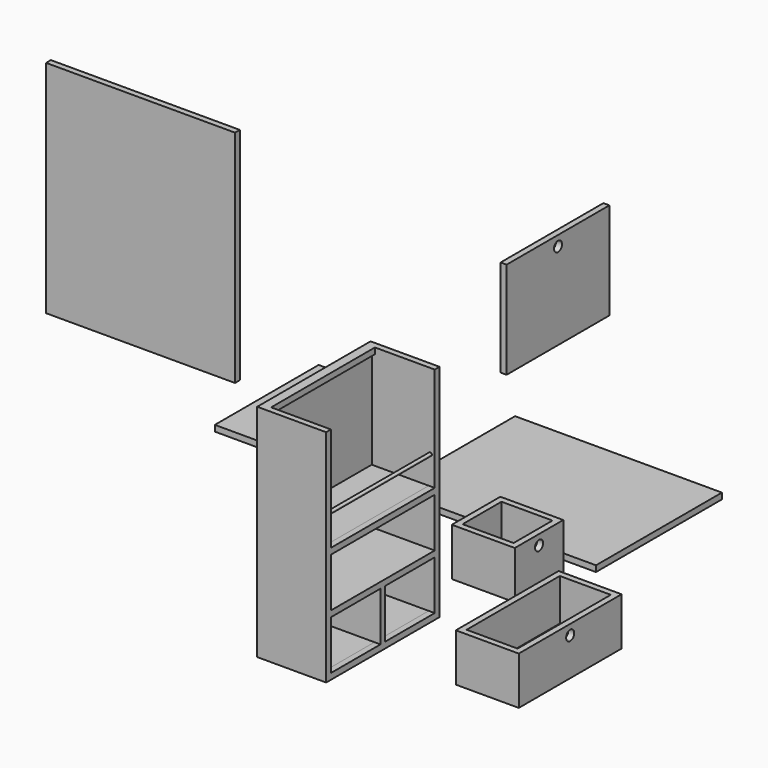
from build123d import *

# Parameters (mm, degrees)
F0_W      = 450
F0_H      = 700
F1_DEPTH  = 19
F2_W      = 19
F2_H      = 700
F3_DEPTH  = 200
F4_W      = 19
F4_H      = 700
F5_DEPTH  = 200
F6_W      = 412
F6_H      = 19
F7_DEPTH  = 10
F8_W      = 412
F8_H      = 19
F9_DEPTH  = 200
F10_W     = 19
F10_H     = 412
F11_DEPTH = 0.1
F12_W     = 412
F12_H     = 19
F13_DEPTH = 200
F14_W     = 19
F14_H     = 412
F15_DEPTH = 0.1
F16_W     = 657
F16_H     = 500
F17_DEPTH = 19
F18_W     = 600
F18_H     = 700
F19_DEPTH = 19
F20_R     = 5
F21_DEPTH = 15
F22_R     = 5
F23_DEPTH = 15
F24_R     = 5
F25_DEPTH = 15
F26_R     = 5
F27_DEPTH = 15
F28_R     = 5
F29_DEPTH = 430
F30_W     = 412
F30_H     = 19
F31_DEPTH = 200
F32_W     = 19
F32_H     = 174.95
F33_DEPTH = 200
F34_W     = 200
F34_H     = 192.5
F35_DEPTH = 19
F36_W     = 200
F36_H     = 192.5
F36_W_2   = 162
F36_H_2   = 154.5
F37_DEPTH = 132.95
F38_R     = 16
F39_DEPTH = 25
F40_W     = 200
F40_H     = 408
F41_DEPTH = 19
F42_W     = 200
F42_H     = 408
F42_W_2   = 162
F42_H_2   = 370
F43_DEPTH = 132.95
F44_R     = 16
F45_DEPTH = 25
F46_W     = 408
F46_H     = 308
F47_DEPTH = 19
F48_R     = 16
F49_DEPTH = 25
F50_W     = 200
F50_H     = 412
F51_DEPTH = 19


with BuildPart() as f1:
    # F0 (on Right) → F1 (new body)
    with BuildSketch(Plane.YZ):
        with Locations((-478.8726508617, 296.4027918875)):
            Rectangle(F0_W, F0_H)
    extrude(amount=F1_DEPTH)

    # F2 (on face) → F3 (join)
    with BuildSketch(Plane.YZ.offset(19)):
        with Locations((-694.3726508617, 296.4027918875)):
            Rectangle(F2_W, F2_H)
    extrude(amount=F3_DEPTH)

    # F4 (on face) → F5 (join)
    with BuildSketch(Plane.YZ.offset(19)):
        with Locations((-263.3726508617, 296.4027918875)):
            Rectangle(F4_W, F4_H)
    extrude(amount=F5_DEPTH)

    # F6 (on face) → F7 (join)
    with BuildSketch(Plane.YZ.offset(19)):
        with Locations((-478.8726508617, 636.9027918875)):
            Rectangle(F6_W, F6_H)
    extrude(amount=F7_DEPTH)

    # F8 (on face) → F9 (join)
    with BuildSketch(Plane.YZ.offset(19)):
        with Locations((-478.8726508617, -44.0972081125)):
            Rectangle(F8_W, F8_H)
    extrude(amount=F9_DEPTH)

    # F10 (on face) → F11 (join)
    with BuildSketch(Plane.XY.offset(-34.5972081125)):
        with Locations((209.5, -478.8726508617)):
            Rectangle(F10_W, F10_H)
    extrude(amount=F11_DEPTH)

    # F12 (on face) → F13 (join)
    with BuildSketch(Plane.YZ.offset(19)):
        with Locations((-478.8726508617, 305.9027918875)):
            Rectangle(F12_W, F12_H)
    extrude(amount=F13_DEPTH)

    # F14 (on face) → F15 (join)
    with BuildSketch(Plane.XY.offset(315.4027918875)):
        with Locations((209.5, -478.8726508617)):
            Rectangle(F14_W, F14_H)
    extrude(amount=F15_DEPTH)

    # F20 (on face) → F21 (cut)
    with BuildSketch(Plane.XY.offset(646.4027918875)):
        with Locations((169, -303.8726508617)):
            Circle(F20_R)
    extrude(amount=-F21_DEPTH, mode=Mode.SUBTRACT)

    # F24 (on face) → F25 (cut)
    with BuildSketch(Plane.XY.offset(646.4027918875)):
        with Locations((169, -653.8726508617)):
            Circle(F24_R)
    extrude(amount=-F25_DEPTH, mode=Mode.SUBTRACT)

    # F28 (on face) → F29 (join)
    with BuildSketch(Plane.XZ.offset(272.8726508617)):
        with Locations((205, 405.5027918875)):
            Circle(F28_R)
    extrude(amount=F29_DEPTH)

    # F30 (on face) → F31 (join)
    with BuildSketch(Plane.YZ.offset(19)):
        with Locations((-478.8726508617, 130.9527918875)):
            Rectangle(F30_W, F30_H)
        with Locations((-478.8726508617, 130.9527918875)):
            Rectangle(F30_W, F30_H)
    extrude(amount=F31_DEPTH)

    # F32 (on face) → F33 (join)
    with BuildSketch(Plane.YZ.offset(19)):
        with Locations((-478.8726508617, 52.9777918875)):
            Rectangle(F32_W, F32_H)
    extrude(amount=F33_DEPTH)


with BuildPart() as f17:
    # F16 (on Top) → F17 (new body)
    with BuildSketch(Plane.XY):
        with Locations((106.6157940626, 347.1586033702)):
            Rectangle(F16_W, F16_H)
    extrude(amount=F17_DEPTH)

    # F22 (on face) → F23 (cut)
    with BuildSketch(Plane(origin=(0, 0, 0), x_dir=(1, 0, 0), z_dir=(0, 0, -1))):
        with Locations((425.1157940626, -107.1586033702)):
            Circle(F22_R)
    extrude(amount=-F23_DEPTH, mode=Mode.SUBTRACT)

    # F26 (on face) → F27 (cut)
    with BuildSketch(Plane(origin=(0, 0, 0), x_dir=(1, 0, 0), z_dir=(0, 0, -1))):
        with Locations((-211.8842059374, -107.1586033702)):
            Circle(F26_R)
    extrude(amount=-F27_DEPTH, mode=Mode.SUBTRACT)


with BuildPart() as f19:
    # F18 (on Front) → F19 (new body)
    with BuildSketch(Plane.XZ):
        with Locations((-918.4927225113, 583.2810461521)):
            Rectangle(F18_W, F18_H)
    extrude(amount=F19_DEPTH)


with BuildPart() as f35:
    # F34 (on Top) → F35 (new body)
    with BuildSketch(Plane.XY):
        with Locations((279.4003725052, -59.2842972279)):
            Rectangle(F34_W, F34_H)
    extrude(amount=F35_DEPTH)

    # F36 (on face) → F37 (join)
    with BuildSketch(Plane.XY.offset(19)):
        with Locations((279.4003725052, -59.2842972279)):
            Rectangle(F36_W, F36_H)
        with Locations((279.4003725052, -59.2842972279)):
            Rectangle(F36_W_2, F36_H_2, mode=Mode.SUBTRACT)
    extrude(amount=F37_DEPTH)

    # F38 (on face) → F39 (cut)
    with BuildSketch(Plane.YZ.offset(379.4003725052)):
        with Locations((-59.2842972279, 119.95)):
            Circle(F38_R)
    extrude(amount=-F39_DEPTH, mode=Mode.SUBTRACT)


with BuildPart() as f41:
    # F40 (on Top) → F41 (new body)
    with BuildSketch(Plane.XY):
        with Locations((641.397023201, -388.1634435654)):
            Rectangle(F40_W, F40_H)
    extrude(amount=F41_DEPTH)

    # F42 (on face) → F43 (join)
    with BuildSketch(Plane.XY.offset(19)):
        with Locations((641.397023201, -388.1634435654)):
            Rectangle(F42_W, F42_H)
        with Locations((641.397023201, -388.1634435654)):
            Rectangle(F42_W_2, F42_H_2, mode=Mode.SUBTRACT)
    extrude(amount=F43_DEPTH)

    # F44 (on face) → F45 (cut)
    with BuildSketch(Plane.YZ.offset(741.397023201)):
        with Locations((-388.1634435654, 119.95)):
            Circle(F44_R)
    extrude(amount=-F45_DEPTH, mode=Mode.SUBTRACT)


with BuildPart() as f47:
    # F46 (on Right) → F47 (new body)
    with BuildSketch(Plane.YZ):
        with Locations((466.4241037369, 503.0626513958)):
            Rectangle(F46_W, F46_H)
    extrude(amount=F47_DEPTH)

    # F48 (on face) → F49 (cut)
    with BuildSketch(Plane.YZ.offset(19)):
        with Locations((466.4241037369, 625.0626513958)):
            Circle(F48_R)
    extrude(amount=-F49_DEPTH, mode=Mode.SUBTRACT)


with BuildPart() as f51:
    # F50 (on Top) → F51 (new body)
    with BuildSketch(Plane.XY):
        with Locations((-674.2177963257, 301.6512093544)):
            Rectangle(F50_W, F50_H)
    extrude(amount=F51_DEPTH)


solid = Compound([f1.part, f17.part, f19.part, f35.part, f41.part, f47.part, f51.part])
